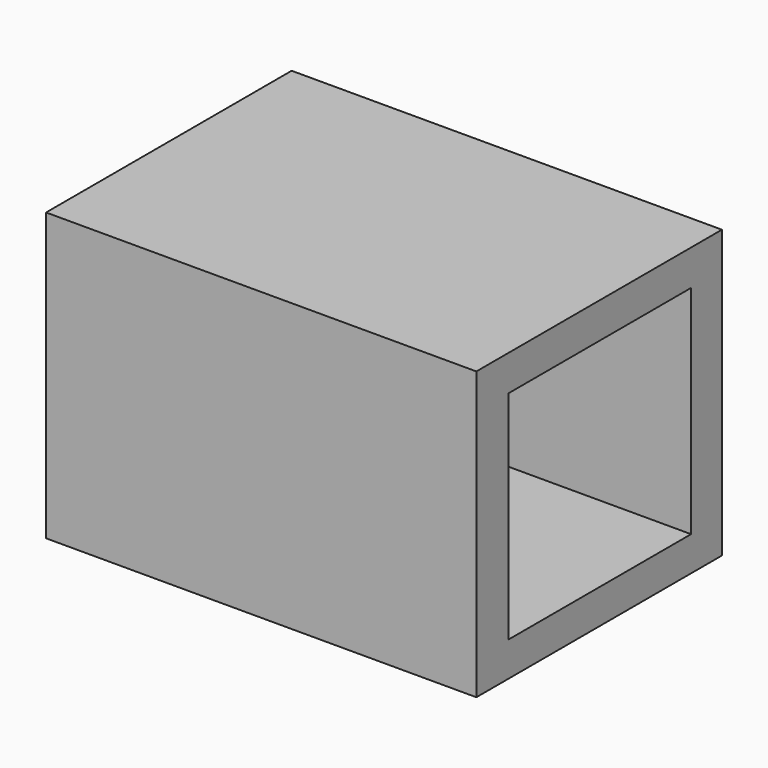
from build123d import *

# Parameters (mm, degrees)
F0_W     = 76.2
F0_H     = 54.356
F1_DEPTH = 50.8
F2_W     = 40.435703
F2_H     = 38.392941
F3_DEPTH = 50.8


with BuildPart() as f1:
    # F0 (on Top) → F1 (new body)
    with BuildSketch(Plane.XY):
        Rectangle(F0_W, F0_H)
    extrude(amount=F1_DEPTH)

    # F2 (on face) → F3 (cut)
    with BuildSketch(Plane.YZ.offset(38.1)):
        with Locations((0.132361, 25.30353)):
            Rectangle(F2_W, F2_H)
    extrude(amount=-F3_DEPTH, mode=Mode.SUBTRACT)


solid = f1.part
